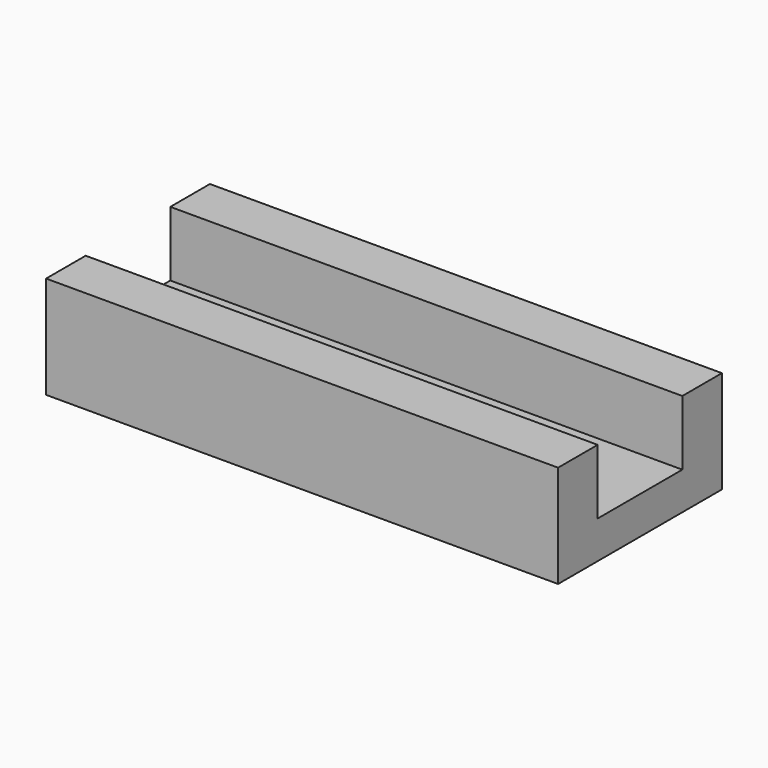
from build123d import *

# Parameters (mm, degrees)
F0_W     = 150
F0_H     = 14.5
F1_DEPTH = 30
F0_H_2   = 31
F2_DEPTH = 11
F3_DEPTH = 30


with BuildPart() as f1:
    # F0 (on Top) → F1 (new body)
    with BuildSketch(Plane.XY):
        with Locations((0, -22.75)):
            Rectangle(F0_W, F0_H)
    extrude(amount=F1_DEPTH)



with BuildPart() as f1b:
    # F0 (on Top) → F1, piece 2 (new body)
    with BuildSketch(Plane.XY):
        with Locations((0, 22.75)):
            Rectangle(F0_W, F0_H)
    extrude(amount=F1_DEPTH)


with BuildPart() as f1_1:
    add(f1.part)

    add(f1b.part)  # F2 merges F1b
    # F0 (on Top) → F2 (join)
    with BuildSketch(Plane.XY):
        Rectangle(F0_W, F0_H_2)
    extrude(amount=F2_DEPTH)

    # F0 (on Top) → F3 (join)
    with BuildSketch(Plane.XY):
        with Locations((0, 22.75)):
            Rectangle(F0_W, F0_H)
    extrude(amount=F3_DEPTH)


solid = f1_1.part
